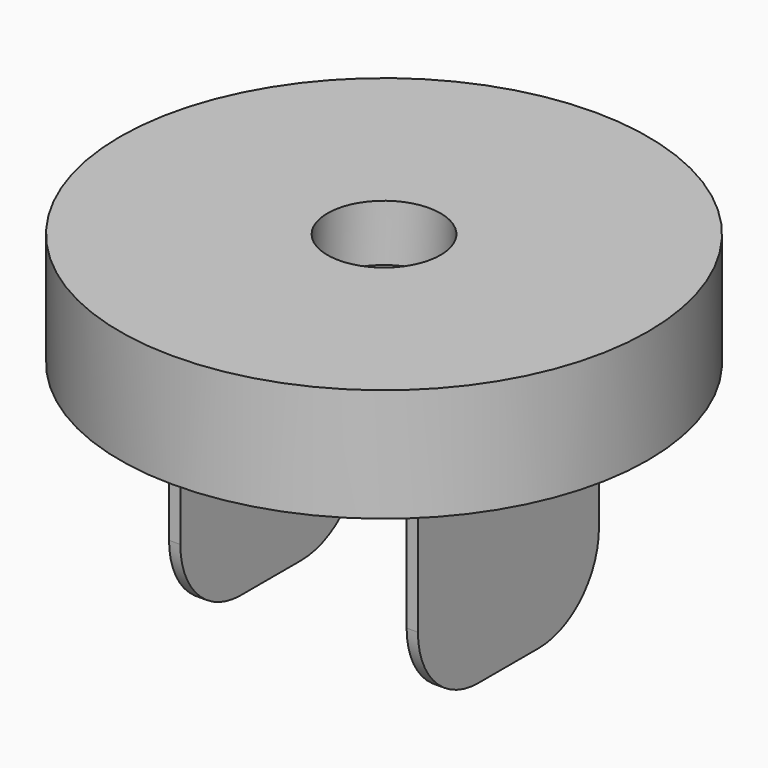
from build123d import *

# Parameters (mm, degrees)
F0_R     = 7
F0_R_2   = 1.5
F1_DEPTH = 3
F2_R     = 1.551902
F3_DEPTH = 1.5
F4_W     = 0.3
F4_H     = 6
F5_DEPTH = 6
F6_R     = 2


with BuildPart() as f1:
    # F0 (on Top) → F1 (new body)
    with BuildSketch(Plane.XY):
        Circle(F0_R)
        Circle(F0_R_2, mode=Mode.SUBTRACT)
    extrude(amount=F1_DEPTH)

    # F2 (on face) → F3 (join)
    with BuildSketch(Plane(origin=(0, 0, 0), x_dir=(1, 0, 0), z_dir=(0, 0, -1))):
        Circle(F2_R)
    extrude(amount=-F3_DEPTH)

    # F4 (on face) → F5 (join)
    with BuildSketch(Plane(origin=(0, 0, 0), x_dir=(1, 0, 0), z_dir=(0, 0, -1))):
        with Locations((-3.15, 0)):
            Rectangle(F4_W, F4_H)
        with Locations((3.15, 0)):
            Rectangle(F4_W, F4_H)
    extrude(amount=F5_DEPTH)

    # F6
    f6_edges = [f1.edges().sort_by_distance(p)[0] for p in [
        (-3.15, -3, -6),
        (-3.15, 3, -6),
        (3.15, 3, -6),
        (3.15, -3, -6),
    ]]
    fillet(f6_edges, radius=F6_R)


solid = f1.part
